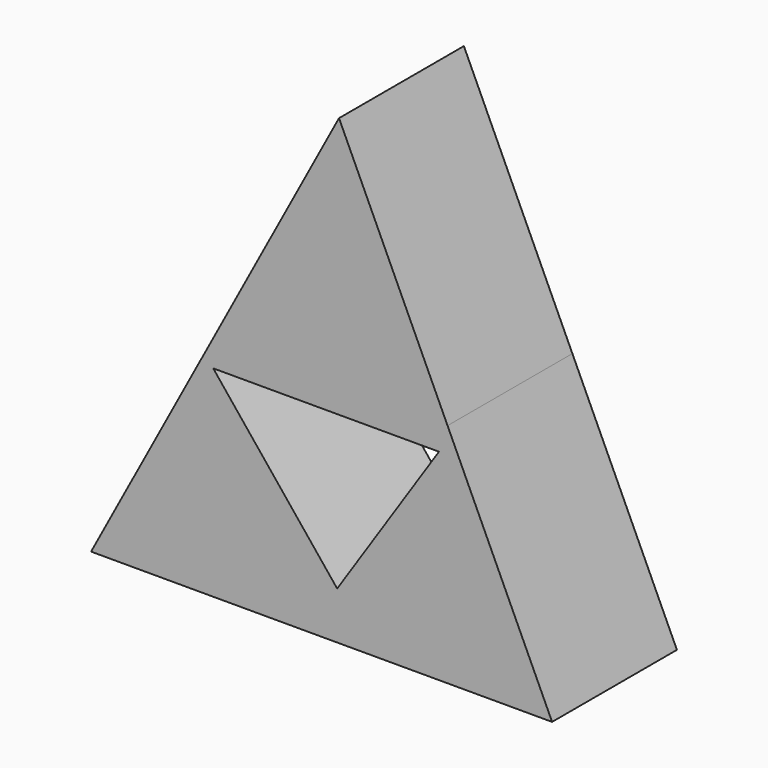
from build123d import *

# Parameters (mm, degrees)
F1_DEPTH = 25.4
F3_DEPTH = 25.4


with BuildPart() as f1:
    # F0 (on Front) → F1 (new body)
    with BuildSketch(Plane.XZ):
        Polygon((58.0202316056, 36.9197579437), (40.3588265181, 75.2369578606), (20.0064992297, 37.2961324534), align=None)
        Polygon((40.3588265181, 0), (20.0064992297, 37.2961324534), (0, 0), align=None)
        Polygon((58.0202316056, 36.9197579437), (20.0064992297, 37.2961324534), (40.3588265181, 0), align=None)
        Polygon((75.0375189384, 0), (58.0202316056, 36.9197579437), (40.3588265181, 0), align=None)
    extrude(amount=F1_DEPTH)

    # F2 (on Front) → F3 (cut, symmetric)
    with BuildSketch(Plane.XZ):
        Polygon((56.622825563, 32.7289290726), (19.8782272637, 32.7289290726), (40.0576405227, 7.730553858), align=None)
    extrude(amount=F3_DEPTH, both=True, mode=Mode.SUBTRACT)


solid = f1.part
